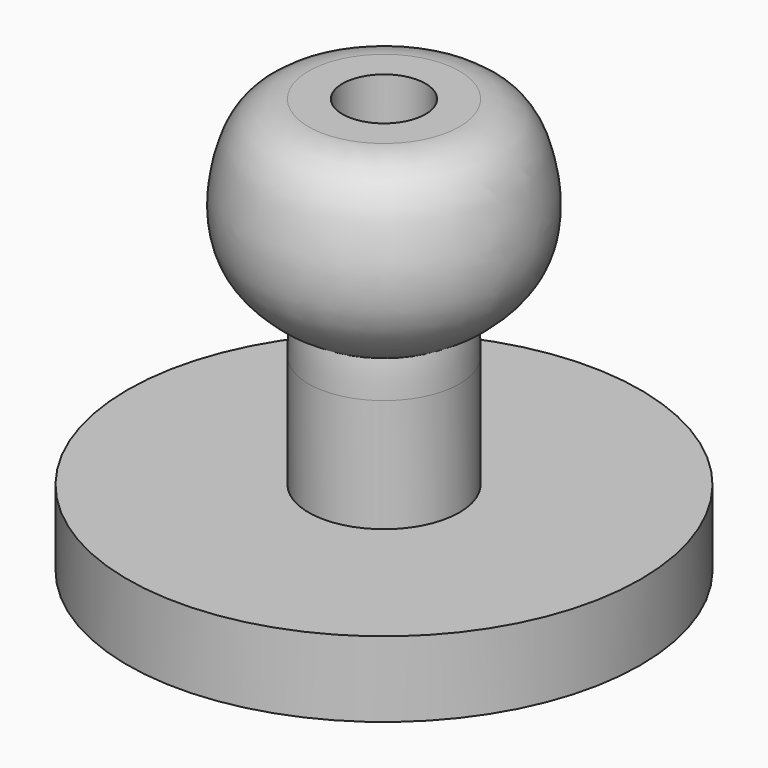
from build123d import *


with BuildPart() as f1:
    # F0 (on Front) → F1 (revolve)
    with BuildSketch(Plane.XZ):
        with BuildLine():
            Line((0, -7), (0, -10))
            Line((0, -10), (34, -10))
            Line((34, -10), (34, 0))
            Line((34, 0), (10, 0))
            Line((10, 0), (10, 15))
            add(Edge.make_bspline(
                [(10, 15), (10, 20.8491496917), (8.3596222942, 18.5104188454), (17.9159458312, 24.9802302624), (19.1429758083, 35.7557790751), (15.3337831227, 45), (10, 45)],
                knots=[0, 0, 0, 0, 0.1887845131, 0.4247311659, 0.7070298574, 1, 1, 1, 1], degree=3))
            Line((10, 45), (5.5, 45))
            Line((5.5, 45), (5.5, 35))
            Line((5.5, 35), (2.25, 35))
            Line((2.25, 35), (2.25, -7))
            Line((2.25, -7), (0, -7))
        make_face()
    revolve(axis=Axis((0, 0, -8.5), (0, 0, -1)))


solid = f1.part
